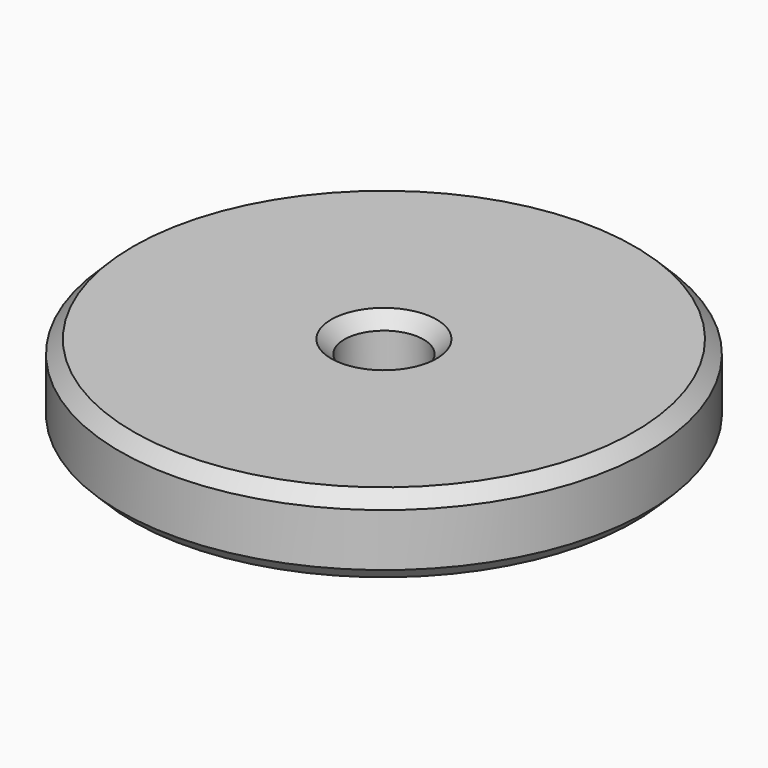
from build123d import *

# Parameters (mm, degrees)
F0_W    = 17
F0_H    = 6
F2_SIZE = 1


with BuildPart() as f1:
    # F0 (on Front) → F1 (revolve)
    with BuildSketch(Plane.XZ):
        with Locations((-11.5, 3)):
            Rectangle(F0_W, F0_H)
    revolve(axis=Axis((0, 0, 4.781917), (0, 0, 1)))

    # F2
    f2_edges = [f1.edges().sort_by_distance(p)[0] for p in [
        (20, 0, 6),
        (20, 0, 0),
        (3, 0, 6),
        (3, 0, 0),
    ]]
    chamfer(f2_edges, length=F2_SIZE)


solid = f1.part
